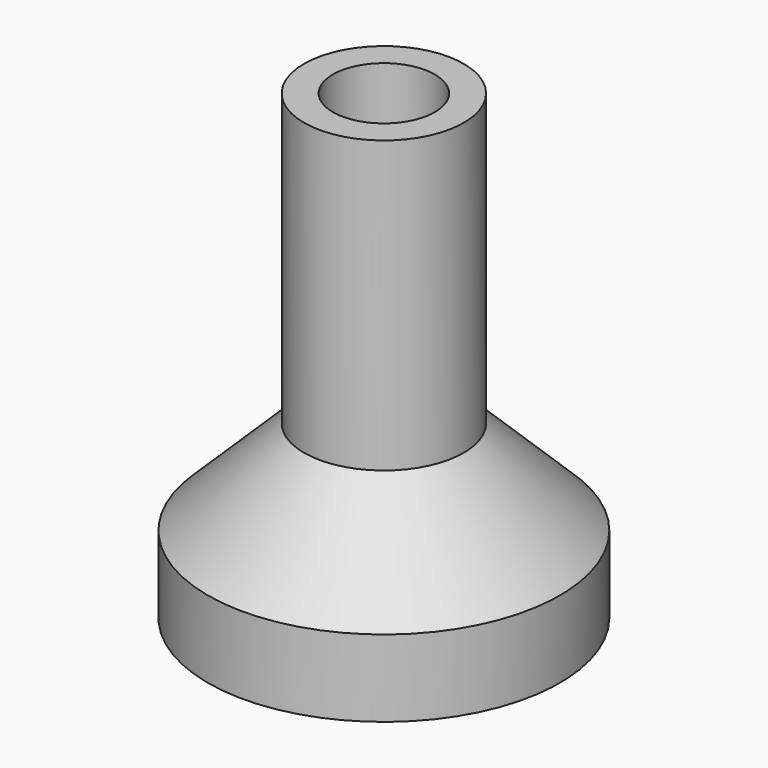
from build123d import *

# Parameters (mm, degrees)
F0_W        = 5
F0_H        = 4
F2_R        = 4.2
F2_R_2      = 3.65
F3_DEPTH    = 2
F3_FACE_R   = 3.65
F3_FACE_R_2 = 2.65
F4_DEPTH    = 13


with BuildPart() as f1:
    # F0 (on Front) → F1 (revolve)
    with BuildSketch(Plane.XZ):
        Polygon((-4.15, 0), (-2.65, 0), (-2.65, 24), (-4.15, 24), (-4.15, 8.898979), (-4.15, 4), align=None)
        with Locations((-6.65, 2)):
            Rectangle(F0_W, F0_H)
        Polygon((-9.15, 4), (-4.15, 4), (-4.15, 8.898979), align=None)
    revolve(axis=Axis((0, 0, 13.376878), (0, 0, 1)))

    # F2 (on Top) → F3 (cut)
    with BuildSketch(Plane.XY):
        Circle(F2_R)
        Circle(F2_R_2, mode=Mode.SUBTRACT)
    extrude(amount=F3_DEPTH, mode=Mode.SUBTRACT)

    # F3_face (on face) → F4 (cut)
    with BuildSketch(Plane(origin=(0, 0, 0), x_dir=(1, 0, 0), z_dir=(0, 0, -1))):
        Circle(F3_FACE_R)
        Circle(F3_FACE_R_2, mode=Mode.SUBTRACT)
    extrude(amount=-F4_DEPTH, mode=Mode.SUBTRACT)


solid = f1.part
